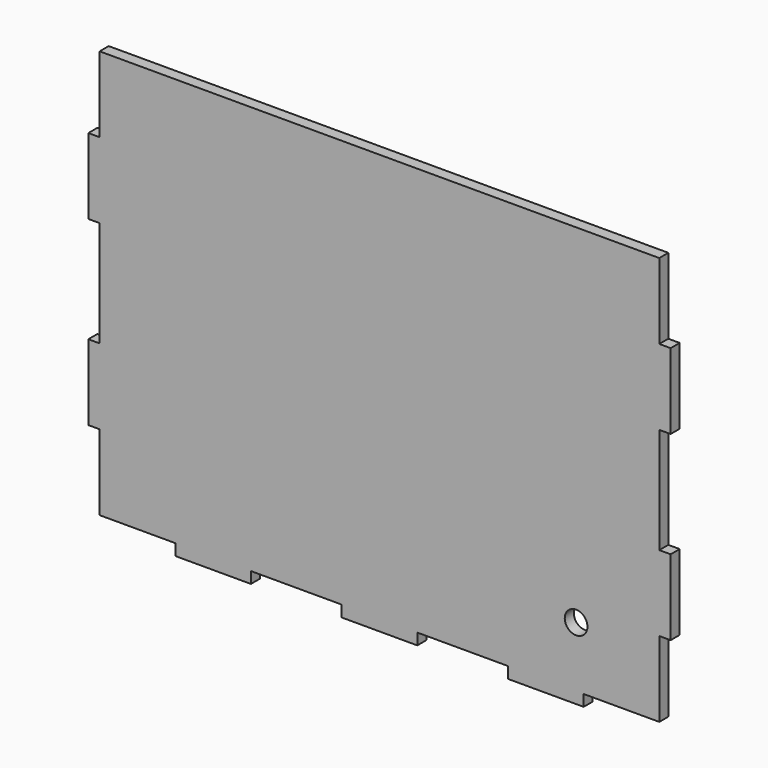
from build123d import *

# Parameters (mm, degrees)
F1_DEPTH = 3
F2_W     = 20
F2_H     = 3
F2_W_2   = 24
F3_DEPTH = 3.001
F4_W     = 3
F4_H     = 20
F4_H_2   = 28
F5_DEPTH = 3.001
F6_R     = 3
F7_DEPTH = 3.001


with BuildPart() as f1:
    # F0 (on Front) → F1 (new body)
    with BuildSketch(Plane.XZ):
        Polygon((3, 3), (3, 0), (151, 0), (151, 3), (154, 3), (154, 111), (0, 111), (0, 3), align=None)
    extrude(amount=F1_DEPTH)

    # F2 (on face) → F3 (cut, through all)
    with BuildSketch(Plane.XZ.offset(3)):
        with Locations((13, 1.5)):
            Rectangle(F2_W, F2_H)
        with Locations((55, 1.5)):
            Rectangle(F2_W_2, F2_H)
        with Locations((141, 1.5)):
            Rectangle(F2_W, F2_H)
        with Locations((99, 1.5)):
            Rectangle(F2_W_2, F2_H)
    extrude(amount=-F3_DEPTH, mode=Mode.SUBTRACT)

    # F4 (on face) → F5 (cut, through all)
    with BuildSketch(Plane(origin=(0, 0, 0), x_dir=(-1, 0, 0), z_dir=(0, 1, 0))):
        with Locations((-152.5, 13)):
            Rectangle(F4_W, F4_H)
        with Locations((-152.5, 57)):
            Rectangle(F4_W, F4_H_2)
        with Locations((-152.5, 101)):
            Rectangle(F4_W, F4_H)
        with Locations((-1.5, 57)):
            Rectangle(F4_W, F4_H_2)
        with Locations((-1.5, 13)):
            Rectangle(F4_W, F4_H)
        with Locations((-1.5, 101)):
            Rectangle(F4_W, F4_H)
    extrude(amount=-F5_DEPTH, mode=Mode.SUBTRACT)

    # F6 (on face) → F7 (cut, through all)
    with BuildSketch(Plane(origin=(0, 0, 0), x_dir=(-1, 0, 0), z_dir=(0, 1, 0))):
        with Locations((-129, 19)):
            Circle(F6_R)
    extrude(amount=-F7_DEPTH, mode=Mode.SUBTRACT)


solid = f1.part
